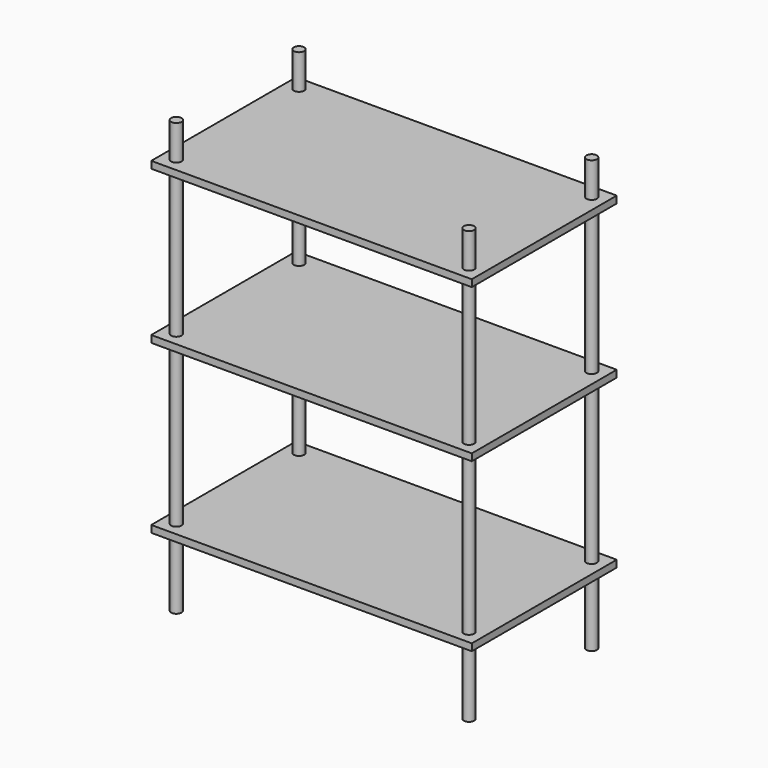
from build123d import *

# Parameters (mm, degrees)
F0_R     = 9.525
F1_DEPTH = 787.4
F4_START = 127
F0_W     = 584.2
F0_H     = 330.2
F4_DEPTH = 12.7
F5_START = 431.8
F5_DEPTH = 12.7
F6_START = 711.2
F6_DEPTH = 12.7


with BuildPart() as f1:
    # F0 (on Top) → F1 (new body)
    with BuildSketch(Plane.XY):
        with Locations((-266.7, 139.7)):
            Circle(F0_R)
    extrude(amount=F1_DEPTH)


with BuildPart() as f2_1:
    # F2: instance of F1
    add(f1.part.mirror(Plane.XZ))


with BuildPart() as f3_1:
    # F3: instance of F1
    add(f1.part.mirror(Plane.YZ))


with BuildPart() as f3_2:
    # F3: instance of F2_1
    add(f2_1.part.mirror(Plane.YZ))


with BuildPart() as f1_1:
    add(f1.part)

    add(f2_1.part)  # F4 merges F2_1

    add(f3_1.part)  # F4 merges F3_1

    add(f3_2.part)  # F4 merges F3_2
    # F0 (on Top) → F4 (join)
    with BuildSketch(Plane.XY.offset(F4_START)):
        Rectangle(F0_W, F0_H)
        with Locations((-266.7, 139.7)):
            Circle(F0_R, mode=Mode.SUBTRACT)
    extrude(amount=F4_DEPTH)

    # F0 (on Top) → F5 (join)
    with BuildSketch(Plane.XY.offset(F5_START)):
        Rectangle(F0_W, F0_H)
        with Locations((-266.7, 139.7)):
            Circle(F0_R, mode=Mode.SUBTRACT)
    extrude(amount=F5_DEPTH)

    # F0 (on Top) → F6 (join)
    with BuildSketch(Plane.XY.offset(F6_START)):
        Rectangle(F0_W, F0_H)
        with Locations((-266.7, 139.7)):
            Circle(F0_R, mode=Mode.SUBTRACT)
    extrude(amount=F6_DEPTH)


solid = f1_1.part
